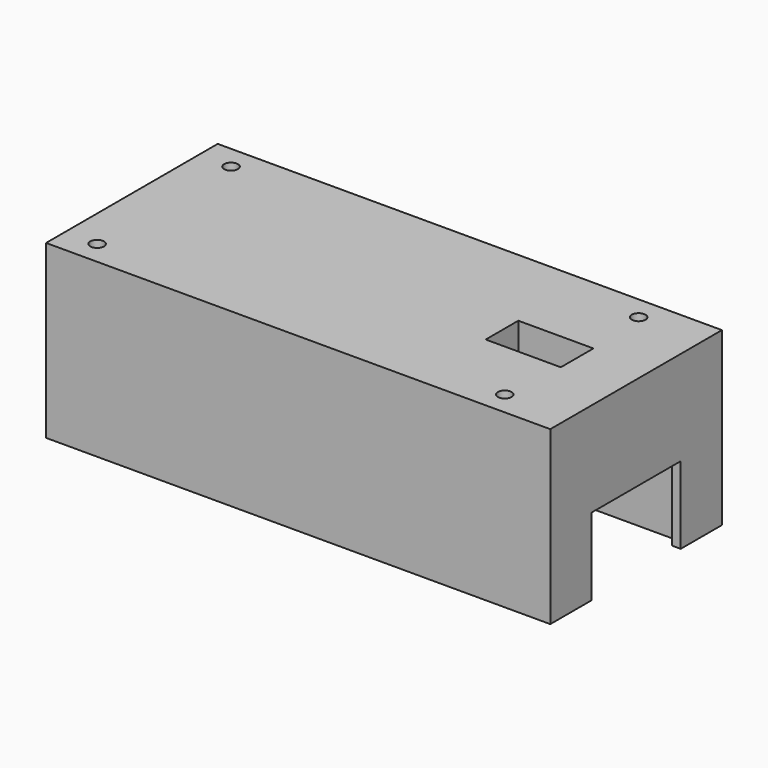
from build123d import *

# Parameters (mm, degrees)
SKETCH_W        = 117.5
SKETCH_H        = 50
PAD_DEPTH       = 40
POCKET_DEPTH    = 18
SKETCH002_R     = 1.6
POCKET001_DEPTH = 40.001
SKETCH003_W     = 17.5
SKETCH003_H     = 9.5
POCKET002_DEPTH = 15
SKETCH004_R     = 1.6
POCKET003_DEPTH = 25.001
SKETCH006_R     = 2.5
POCKET004_DEPTH = 117.501


with BuildPart() as part:
    # Sketch → Pad (new body)
    with BuildSketch(Plane.XY):
        Rectangle(SKETCH_W, SKETCH_H)
    extrude(amount=PAD_DEPTH)

    # Sketch001 → Pocket (cut, symmetric)
    with BuildSketch(Plane.XY):
        Polygon((56.75, -13), (58.75, -13), (58.75, 13), (56.75, 13), (56.75, 15.25), (-51.25, 15.25), (-51.25, -15.25), (56.75, -15.25), align=None)
    extrude(amount=POCKET_DEPTH, both=True, mode=Mode.SUBTRACT)

    # Sketch002 → Pocket001 (cut, through all)
    with BuildSketch(Plane.XY):
        with Locations((-51.25, 19.5)):
            Circle(SKETCH002_R)
        with Locations((43.75, 19.5)):
            Circle(SKETCH002_R)
        with Locations((-51.25, -19.5)):
            Circle(SKETCH002_R)
        with Locations((43.75, -19.5)):
            Circle(SKETCH002_R)
    extrude(amount=POCKET001_DEPTH, mode=Mode.SUBTRACT)

    # Sketch003 (on Face5 of Pocket001) → Pocket002 (cut)
    with BuildSketch(Plane.XY.offset(40)):
        with Locations((36.25, 0)):
            Rectangle(SKETCH003_W, SKETCH003_H)
    extrude(amount=-POCKET002_DEPTH, mode=Mode.SUBTRACT)

    # Sketch004 (on Face23 of Pocket002) → Pocket003 (cut, through all)
    with BuildSketch(Plane.XY.offset(25)):
        with Locations((36.25, 0)):
            Circle(SKETCH004_R)
    extrude(amount=-POCKET003_DEPTH, mode=Mode.SUBTRACT)

    # Sketch006 (on DatumPlane) → Pocket004 (cut, through all)
    with BuildSketch(Plane.YZ.offset(58.75)):
        with Locations((0, 9.82)):
            Circle(SKETCH006_R)
    extrude(amount=-POCKET004_DEPTH, mode=Mode.SUBTRACT)


solid = part.part
